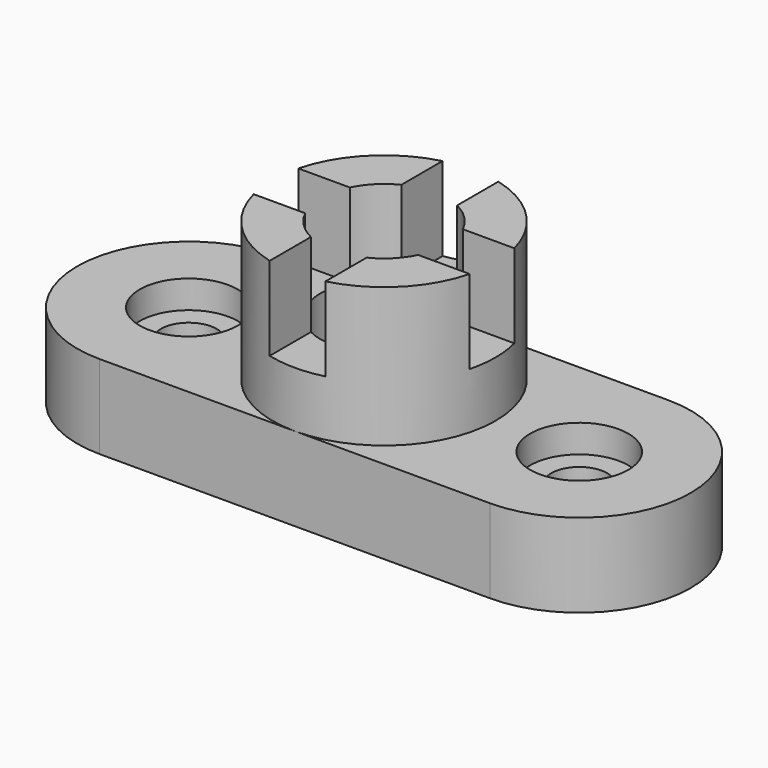
from build123d import *

# Parameters (mm, degrees)
F0_W      = 88.9
F0_H      = 50.8
F1_DEPTH  = 19.05
F2_R      = 11.176
F2_R_2    = 6.35
F3_DEPTH  = 6.35
F4_DEPTH  = 19.051
F5_R      = 25.4
F6_DEPTH  = 31.75
F7_R      = 14.351
F8_DEPTH  = 50.801
F9_W      = 12.7
F9_H      = 50.8
F10_DEPTH = 19.05
F11_W     = 59.6698417132
F11_H     = 12.7
F12_DEPTH = 19.05


with BuildPart() as f1:
    # F0 (on Top) → F1 (new body)
    with BuildSketch(Plane.XY):
        with Locations((0, 25.4)):
            Rectangle(F0_W, F0_H)
        with BuildLine():
            ThreePointArc((-44.45, 50.8), (-69.85, 25.4), (-44.45, 0))
            Line((-44.45, 0), (-44.45, 50.8))
        make_face()
        with BuildLine():
            Line((44.45, 50.8), (44.45, 0))
            ThreePointArc((44.45, 0), (69.85, 25.4), (44.45, 50.8))
        make_face()
    extrude(amount=F1_DEPTH)

    # F2 (on face) → F3 (cut)
    with BuildSketch(Plane.XY.offset(19.05)):
        with Locations((-44.45, 25.4)):
            Circle(F2_R)
        with Locations((-44.45, 25.4)):
            Circle(F2_R_2, mode=Mode.SUBTRACT)
        with Locations((44.45, 25.4)):
            Circle(F2_R)
        with Locations((44.45, 25.4)):
            Circle(F2_R_2, mode=Mode.SUBTRACT)
    extrude(amount=-F3_DEPTH, mode=Mode.SUBTRACT)

    # F4 (cut, through all): faces of the model
    f4_faces = [f1.faces().sort_by_distance(p)[0] for p in [
        (-44.45, 25.4, 19.05),
        (44.45, 25.4, 19.05),
    ]]
    extrude(f4_faces, amount=-F4_DEPTH, mode=Mode.SUBTRACT)

    # F5 (on face) → F6 (join)
    with BuildSketch(Plane.XY.offset(19.05)):
        with Locations((0, 25.4)):
            Circle(F5_R)
    extrude(amount=F6_DEPTH)

    # F7 (on face) → F8 (cut, through all)
    with BuildSketch(Plane.XY.offset(50.8)):
        with Locations((0, 25.4)):
            Circle(F7_R)
    extrude(amount=-F8_DEPTH, mode=Mode.SUBTRACT)

    # F9 (on face) → F10 (cut)
    with BuildSketch(Plane.XY.offset(50.8)):
        with Locations((0, 25.4)):
            Rectangle(F9_W, F9_H)
    extrude(amount=-F10_DEPTH, mode=Mode.SUBTRACT)

    # F11 (on face) → F12 (cut)
    with BuildSketch(Plane.XY.offset(50.8)):
        with Locations((-1.5055649169, 25.4)):
            Rectangle(F11_W, F11_H)
    extrude(amount=-F12_DEPTH, mode=Mode.SUBTRACT)


solid = f1.part
